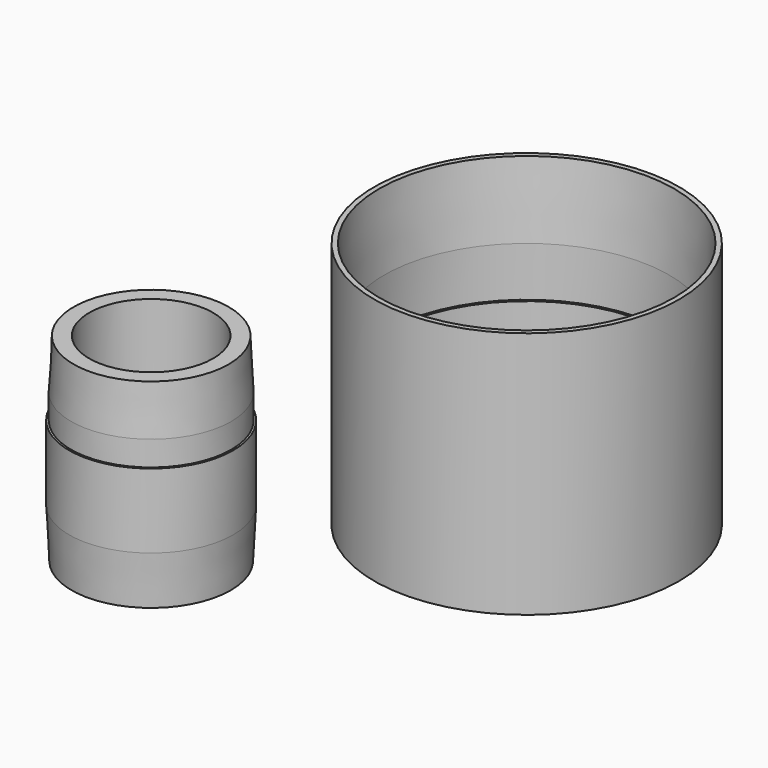
from build123d import *

# Parameters (mm, degrees)
F0_R     = 16.15
F0_R_2   = 12.5
F1_DEPTH = 15
F0_R_3   = 16.55
F2_DEPTH = 25
F3_SIZE2 = 10
F3_SIZE  = 0.5
F4_SIZE2 = 0.5
F4_SIZE  = 10
F5_R     = 30.75
F5_R_2   = 28.75
F5_R_3   = 28.25
F6_DEPTH = 25
F7_DEPTH = 25
F8_SIZE2 = 1
F8_SIZE  = 15
F9_SIZE2 = 15
F9_SIZE  = 1


with BuildPart() as f1:
    # F0 (on Top) → F1 (new body)
    with BuildSketch(Plane.XY):
        Circle(F0_R)
        Circle(F0_R_2, mode=Mode.SUBTRACT)
    extrude(amount=F1_DEPTH)

    # F0 (on Top) → F2 (join)
    with BuildSketch(Plane.XY):
        Circle(F0_R_3)
        Circle(F0_R, mode=Mode.SUBTRACT)
        Circle(F0_R)
        Circle(F0_R_2, mode=Mode.SUBTRACT)
    extrude(amount=-F2_DEPTH)

    # F3
    f3_edges = [f1.edges().sort_by_distance(p)[0] for p in [
        (-16.15, 0, 15),
    ]]
    f3_side = f1.faces().sort_by_distance((-15.693209, 0, 15))[0]
    chamfer(f3_edges, length=F3_SIZE, length2=F3_SIZE2, reference=f3_side)

    # F4
    f4_edges = [f1.edges().sort_by_distance(p)[0] for p in [
        (-16.55, 0, -25),
    ]]
    f4_side = f1.faces().sort_by_distance((-16.55, 0, -12.5))[0]
    chamfer(f4_edges, length=F4_SIZE, length2=F4_SIZE2, reference=f4_side)


with BuildPart() as f6:
    # F5 (on Top) → F6 (new body)
    with BuildSketch(Plane.XY):
        with Locations((38.4864732623, 46.5682074428)):
            Circle(F5_R)
        with Locations((38.4864732623, 46.5682074428)):
            Circle(F5_R_2, mode=Mode.SUBTRACT)
        with Locations((38.4864732623, 46.5682074428)):
            Circle(F5_R_2)
        with Locations((38.4864732623, 46.5682074428)):
            Circle(F5_R_3, mode=Mode.SUBTRACT)
    extrude(amount=-F6_DEPTH)

    # F5 (on Top) → F7 (join)
    with BuildSketch(Plane.XY):
        with Locations((38.4864732623, 46.5682074428)):
            Circle(F5_R)
        with Locations((38.4864732623, 46.5682074428)):
            Circle(F5_R_2, mode=Mode.SUBTRACT)
    extrude(amount=F7_DEPTH)

    # F8
    f8_edges = [f6.edges().sort_by_distance(p)[0] for p in [
        (9.736473, 46.568207, 25),
    ]]
    f8_side = f6.faces().sort_by_distance((9.736473, 46.568207, 12.5))[0]
    chamfer(f8_edges, length=F8_SIZE, length2=F8_SIZE2, reference=f8_side)

    # F9
    f9_edges = [f6.edges().sort_by_distance(p)[0] for p in [
        (10.236473, 46.568207, -25),
    ]]
    f9_side = f6.faces().sort_by_distance((8.606215, 46.568207, -25))[0]
    chamfer(f9_edges, length=F9_SIZE, length2=F9_SIZE2, reference=f9_side)


solid = Compound([f1.part, f6.part])
